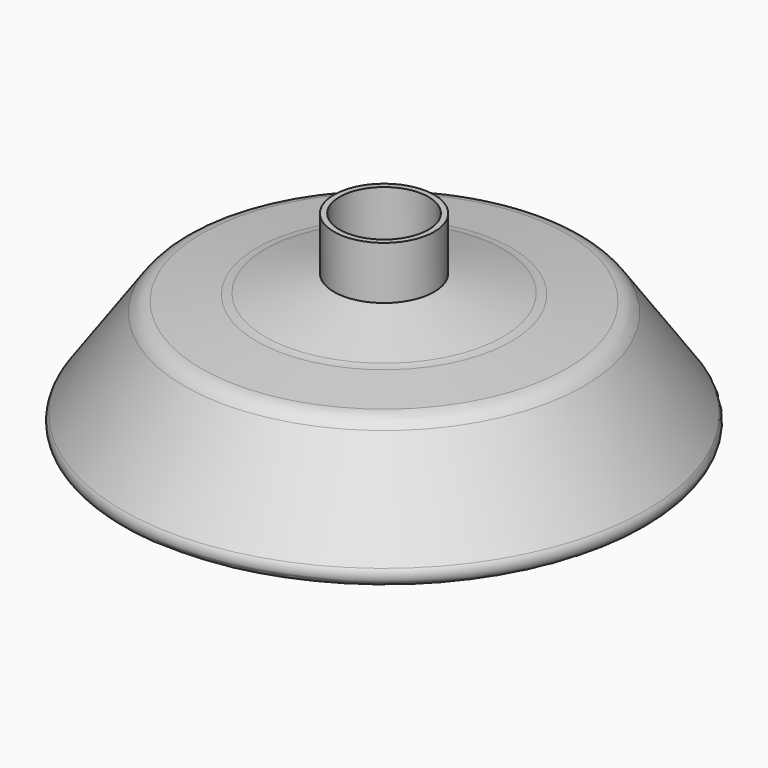
from build123d import *

# Parameters (mm, degrees)
F2_R     = 4.7625
F3_DEPTH = 9.525
F4_R     = 1.5875
F5_DEPTH = 17.78


with BuildPart() as f1:
    # F0 (on Front) → F1 (revolve)
    with BuildSketch(Plane.XZ):
        with BuildLine():
            Line((12.743474, 20.729434), (5.371063, 22.575061))
            Line((5.371063, 22.575061), (5.371063, 28.250467))
            Line((5.371063, 28.250467), (0, 28.250467))
            Line((0, 28.250467), (0, 0))
            Line((0, 0), (2.540102, 0))
            Line((2.540102, 0), (4.674008, 2.74161))
            Line((4.674008, 2.74161), (12.14571, 2.74161))
            ThreePointArc((12.14571, 2.74161), (13.167332, 2.824331), (14.162337, 3.070338))
            Line((14.162337, 3.070338), (27.477805, 7.529916))
            ThreePointArc((27.477805, 7.529916), (28.234492, 8.290196), (28.078277, 9.351419))
            Line((28.078277, 9.351419), (21.404842, 18.884539))
            ThreePointArc((21.404842, 18.884539), (20.61201, 19.617126), (19.586547, 19.954304))
            Line((19.586547, 19.954304), (13.62924, 20.573351))
            ThreePointArc((13.62924, 20.573351), (13.18359, 20.63569), (12.743474, 20.729434))
        make_face()
    revolve(axis=Axis((0, 0, 14.125234), (0, 0, -1)))

    # F2 (on face) → F3 (cut)
    with BuildSketch(Plane.XY.offset(28.250467)):
        Circle(F2_R)
    extrude(amount=-F3_DEPTH, mode=Mode.SUBTRACT)

    # F4 (on face) → F5 (cut)
    with BuildSketch(Plane(origin=(0, 0, 0), x_dir=(1, 0, 0), z_dir=(0, 0, -1))):
        Circle(F4_R)
    extrude(amount=-F5_DEPTH, mode=Mode.SUBTRACT)


solid = f1.part
